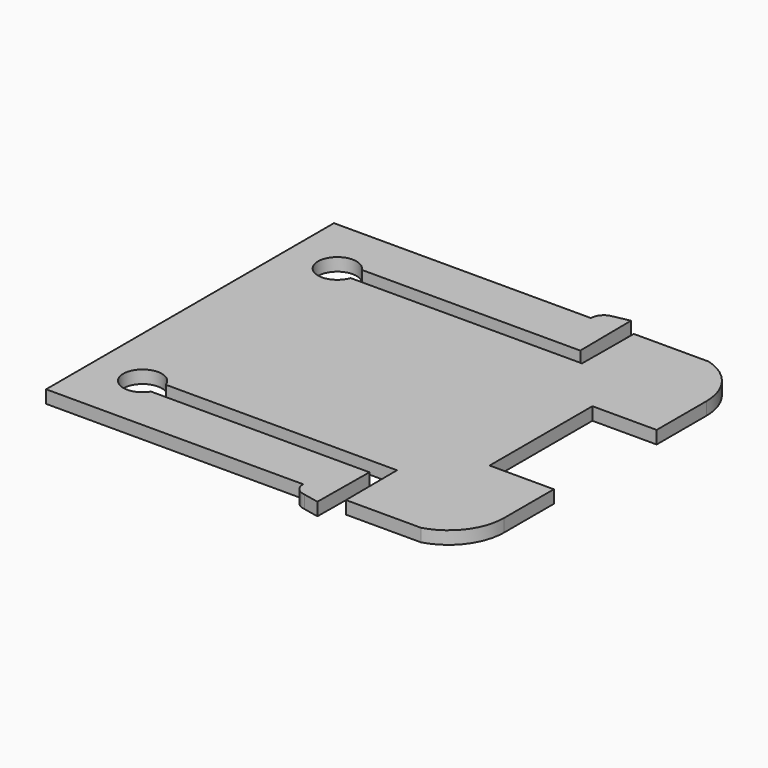
from build123d import *

# Parameters (mm, degrees)
F1_DEPTH = 1


with BuildPart() as f1:
    # F0 (on Top) → F1 (new body)
    with BuildSketch(Plane.XY):
        with BuildLine():
            Line((12.941082, 13.656496), (7.447495, 13.656496))
            Line((7.447495, 13.656496), (7.417744, 8.656584))
            Line((7.417744, 8.656584), (-10.582252, 8.64454))
            ThreePointArc((-10.582252, 8.64454), (-13.493531, 8.959871), (-10.723445, 9.909398))
            Line((-10.723445, 9.909398), (6.276555, 9.910218))
            Line((6.276555, 9.910218), (6.230077, 14.910002))
            Line((6.230077, 14.910002), (5.003915, 14.656496))
            ThreePointArc((5.003915, 14.656496), (4.365699, 14.327975), (4.112004, 13.656496))
            Line((4.112004, 13.656496), (-15.887996, 13.656496))
            Line((-15.887996, 13.656496), (-15.887996, -14.343504))
            Line((-15.887996, -14.343504), (4.112004, -14.343504))
            ThreePointArc((4.112004, -14.343504), (4.365699, -15.014984), (5.003915, -15.343504))
            Line((5.003915, -15.343504), (6.230077, -15.597011))
            Line((6.230077, -15.597011), (6.276555, -10.597227))
            Line((6.276555, -10.597227), (-10.723445, -10.596407))
            ThreePointArc((-10.723445, -10.596407), (-13.493531, -9.646879), (-10.582252, -9.331549))
            Line((-10.582252, -9.331549), (7.417744, -9.343593))
            Line((7.417744, -9.343593), (7.447495, -14.343504))
            Line((7.447495, -14.343504), (13.294204, -14.343504))
            ThreePointArc((13.294204, -14.343504), (15.554923, -12.77892), (16.424473, -10.17073))
            Line((16.424473, -10.17073), (16.424473, -5.343504))
            Line((16.424473, -5.343504), (11.424473, -5.343504))
            Line((11.424473, -5.343504), (11.424473, 4.656496))
            Line((11.424473, 4.656496), (12.941082, 4.656496))
            Line((12.941082, 4.656496), (12.941082, 13.656496))
        make_face()
        with BuildLine():
            Line((13.294204, 13.656496), (12.941082, 13.656496))
            Line((12.941082, 13.656496), (12.941082, 4.656496))
            Line((12.941082, 4.656496), (16.424473, 4.656496))
            Line((16.424473, 4.656496), (16.424473, 9.483721))
            ThreePointArc((16.424473, 9.483721), (15.554923, 12.091912), (13.294204, 13.656496))
        make_face()
    extrude(amount=F1_DEPTH)


solid = f1.part
